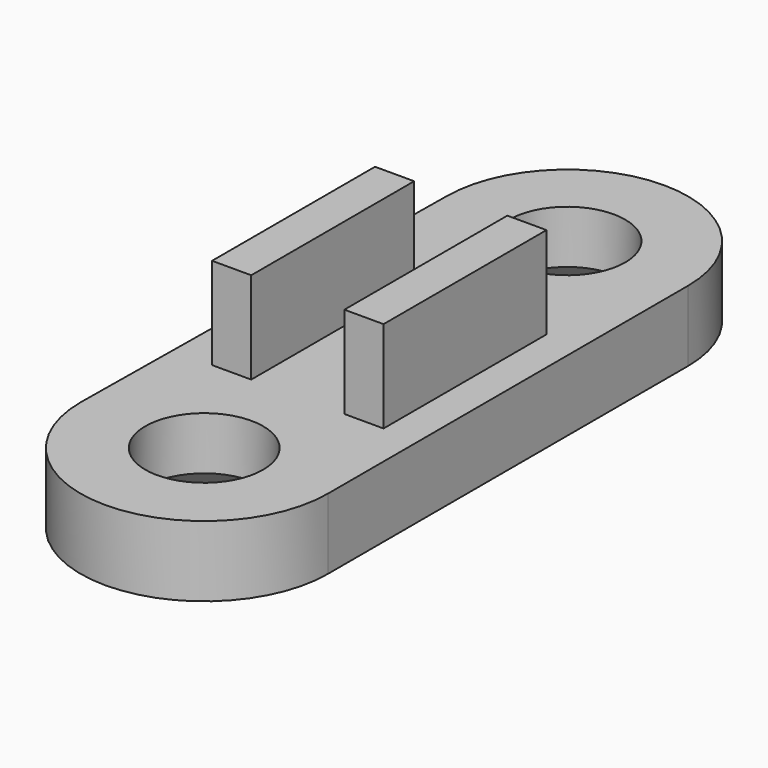
from build123d import *

# Parameters (mm, degrees)
SKETCH023_R     = 1.640991
SKETCH023_R_2   = 1.667929
PAD017_DEPTH    = 2
SKETCH024_W     = 1.10811
SKETCH024_H     = 5.765145
PAD018_DEPTH    = 4.6
CHAMFER004_SIZE = 0.5


with BuildPart() as part:
    # Sketch023 → Pad017 (new body)
    with BuildSketch(Plane.XY):
        with BuildLine():
            ThreePointArc((59.303531, 33.743852), (55.880409, 37.166974), (52.457287, 33.743852))
            Line((52.457287, 33.743852), (52.303531, 20.99579))
            ThreePointArc((52.303531, 20.99579), (55.803531, 17.49579), (59.303531, 20.99579))
            Line((59.303531, 33.743852), (59.303531, 20.99579))
        make_face()
        with Locations((55.880409, 33.743852)):
            Circle(SKETCH023_R, mode=Mode.SUBTRACT)
        with Locations((55.803531, 20.99579)):
            Circle(SKETCH023_R_2, mode=Mode.SUBTRACT)
    extrude(amount=PAD017_DEPTH)

    # Sketch024 → Pad018 (join)
    with BuildSketch(Plane.XY):
        with Locations((54.015807, 27.08314)):
            Rectangle(SKETCH024_W, SKETCH024_H)
        with Locations((57.761141, 27.08314)):
            Rectangle(SKETCH024_W, SKETCH024_H)
    extrude(amount=PAD018_DEPTH)

    # Chamfer004
    chamfer004_edges = [part.edges().sort_by_distance(p)[0] for p in [
        (54.135602, 20.99579, 0),
        (54.239418, 33.743852, 0),
    ]]
    chamfer(chamfer004_edges, length=CHAMFER004_SIZE)


solid = part.part
